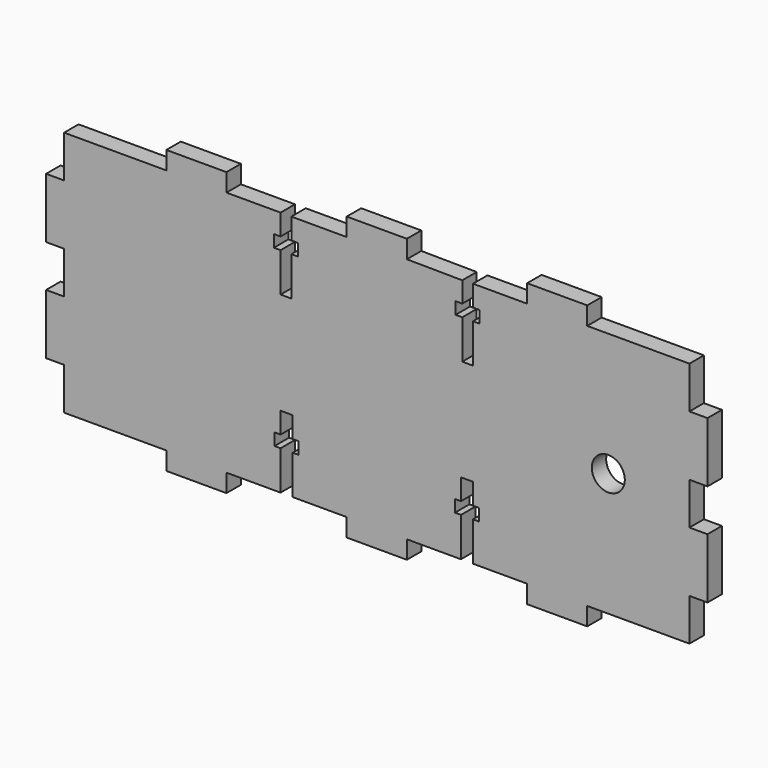
from build123d import *

# Parameters (mm, degrees)
F0_R     = 2.75
F1_DEPTH = 3


with BuildPart() as f1:
    # F0 (on Front) → F1 (new body)
    with BuildSketch(Plane.XZ):
        Polygon((-17, 0), (0, 0), (0, 7), (3, 7), (3, 17), (0, 17), (0, 24), (3, 24), (3, 34), (0, 34), (0, 41), (-17, 41), (-17, 44), (-27, 44), (-27, 41), (-36, 41), (-36, 37.5), (-34.891142, 37.5), (-34.891142, 35.5), (-36, 35.5), (-36, 29), (-37.782284, 29), (-37.782284, 35.5), (-38.891142, 35.5), (-38.891142, 37.5), (-37.782284, 37.5), (-37.782284, 40.915333), (-47, 41), (-47, 44), (-57, 44), (-57, 41), (-66.217716, 41), (-66.217716, 37.5), (-65.108858, 37.5), (-65.108858, 35.5), (-66.217716, 35.5), (-66.217716, 29), (-68, 29), (-68, 35.5), (-69.108858, 35.5), (-69.108858, 37.5), (-68, 37.5), (-68, 41), (-77, 41), (-77, 44), (-87, 44), (-87, 41), (-104, 41), (-104, 34), (-107, 34), (-107, 24), (-104, 24), (-104, 17), (-107, 17), (-107, 7), (-104, 7), (-104, 0), (-87, 0), (-87, -3), (-77, -3), (-77, 0), (-68, 0), (-68, 6.5), (-69, 6.5), (-69, 8.5), (-68, 8.5), (-68, 12), (-66, 12), (-66, 8.5), (-65, 8.5), (-65, 6.5), (-66, 6.5), (-66, 0), (-57, 0), (-57, -3), (-47, -3), (-47, 0), (-38, 0), (-38, 6.5), (-39, 6.5), (-39, 8.5), (-38, 8.5), (-38, 12), (-36, 12), (-36, 8.5), (-35, 8.5), (-35, 6.5), (-36, 6.5), (-36, 0), (-27, 0), (-27, -3), (-17, -3), align=None)
        with Locations((-13.5, 20.5)):
            Circle(F0_R, mode=Mode.SUBTRACT)
    extrude(amount=F1_DEPTH)


solid = f1.part
